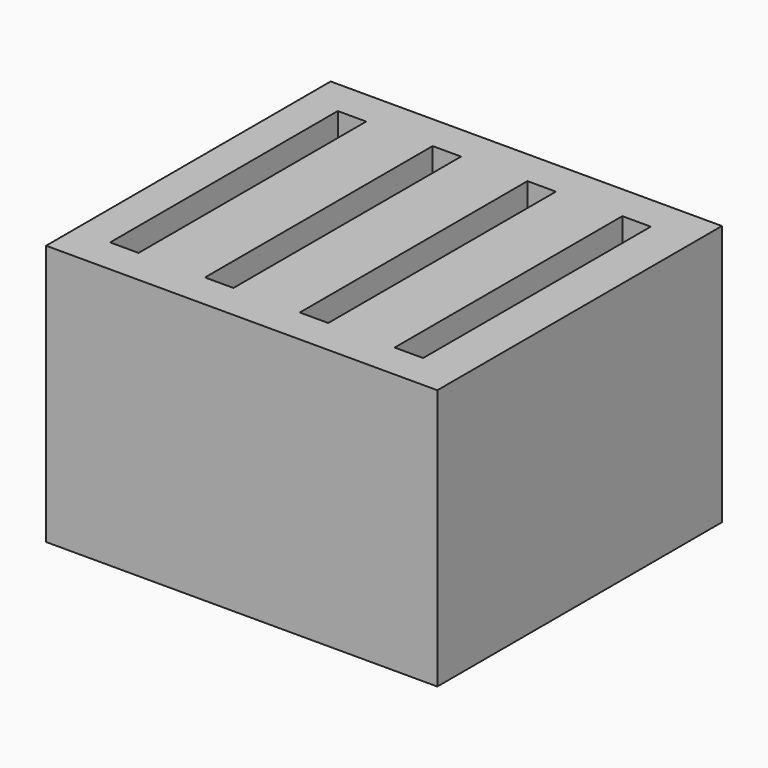
from build123d import *

# Parameters (mm, degrees)
BOX_W        = 2.4
BOX_H        = 24
BOX_DEPTH    = 22
BOX001_W     = 2.4
BOX001_H     = 24
BOX001_DEPTH = 22
BOX002_W     = 2.4
BOX002_H     = 24
BOX002_DEPTH = 22
BOX003_W     = 2.4
BOX003_H     = 24
BOX003_DEPTH = 22
BOX004_W     = 33
BOX004_H     = 30
BOX004_DEPTH = 22


with BuildPart() as ranura1:
    # Box → Box (new body)
    with BuildSketch(Plane.XY):
        with Locations((1.2, 12)):
            Rectangle(BOX_W, BOX_H)
    extrude(amount=BOX_DEPTH)


with BuildPart() as ranura002:
    # Box001 → Box001 (new body)
    with BuildSketch(Plane(origin=(8, 0, 0), x_dir=(1, 0, 0), z_dir=(0, 0, 1))):
        with Locations((1.2, 12)):
            Rectangle(BOX001_W, BOX001_H)
    extrude(amount=BOX001_DEPTH)


with BuildPart() as ranura003:
    # Box002 → Box002 (new body)
    with BuildSketch(Plane(origin=(16, 0, 0), x_dir=(1, 0, 0), z_dir=(0, 0, 1))):
        with Locations((1.2, 12)):
            Rectangle(BOX002_W, BOX002_H)
    extrude(amount=BOX002_DEPTH)


with BuildPart() as fusion:
    # Box003 → Box003 (new body)
    with BuildSketch(Plane(origin=(24, 0, 0), x_dir=(1, 0, 0), z_dir=(0, 0, 1))):
        with Locations((1.2, 12)):
            Rectangle(BOX003_W, BOX003_H)
    extrude(amount=BOX003_DEPTH)

    # Fusion: union Ranura1, Ranura002, Ranura003
    add(ranura1.part)
    add(ranura002.part)
    add(ranura003.part)


with BuildPart() as fusion_1:
    # Fusion placement: moved
    add(fusion.part.moved(Location((3, 3, 1))))


with BuildPart() as cut:
    # Box004 → Box004 (new body)
    with BuildSketch(Plane.XY):
        with Locations((16.5, 15)):
            Rectangle(BOX004_W, BOX004_H)
    extrude(amount=BOX004_DEPTH)

    # Cut: cut Fusion
    add(fusion_1.part, mode=Mode.SUBTRACT)


solid = cut.part
